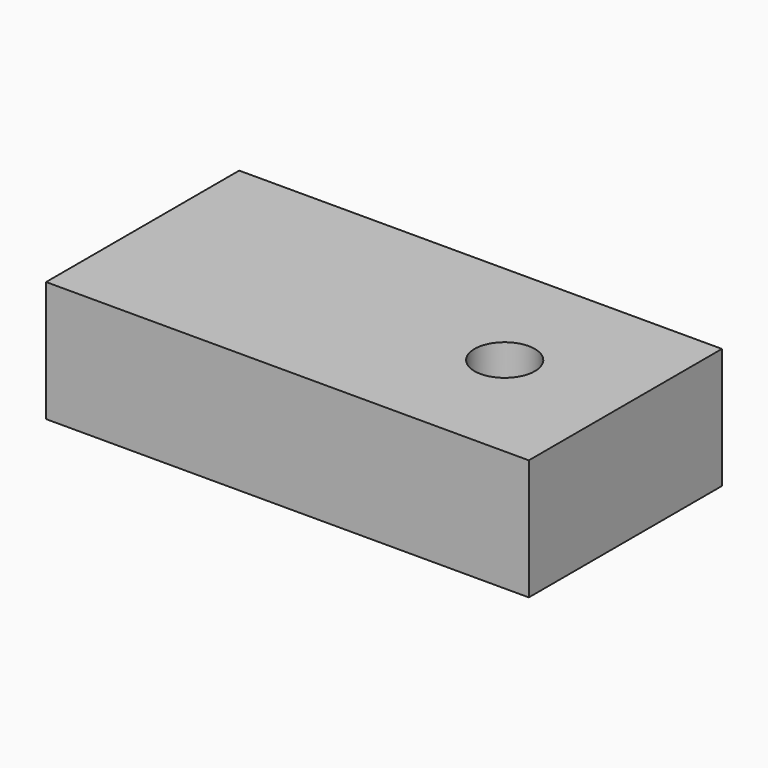
from build123d import *

# Parameters (mm, degrees)
F1_W     = 101.6
F1_H     = 50.8
F1_R     = 6.35
F2_DEPTH = 25.4


with BuildPart() as f2:
    # F1 (on offset) → F2 (new body)
    with BuildSketch(Plane.XY.offset(152.4)):
        Rectangle(F1_W, F1_H)
        with Locations((25.4, 0)):
            Circle(F1_R, mode=Mode.SUBTRACT)
    extrude(amount=F2_DEPTH)


solid = f2.part
